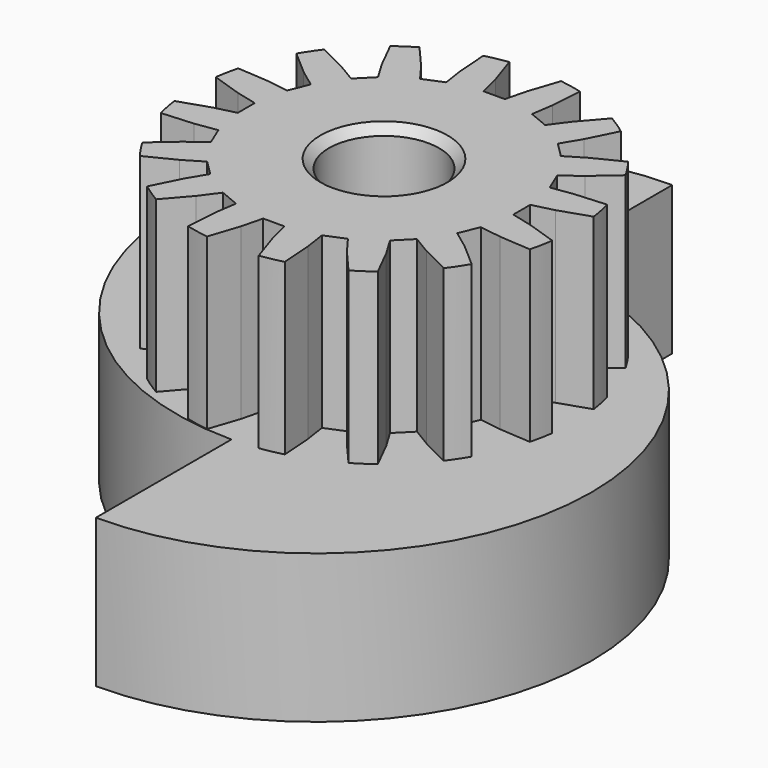
from build123d import *

# Parameters (mm, degrees)
POCKET_DEPTH          = 7
POLARPATTERN_COUNT    = 2
POCKET001_DEPTH       = 8
POLARPATTERN001_COUNT = 16
SKETCH003_R           = 2.6
POCKET002_DEPTH       = 15
CHAMFER_SIZE          = 0.4


with BuildPart() as part:
    # Sketch → Revolution (revolve)
    with BuildSketch(Plane.XZ):
        Polygon((0, 0), (17, 0), (17, 7), (9, 7), (9, 15), (0, 15), align=None)
    revolve(axis=Axis((0, 0, 0), (0, 0, 1)))

    # Sketch001 (on Face3 of Revolution) → Pocket (cut)
    with BuildSketch(Plane(origin=(0, 0, 7), x_dir=(-1, 0, 0), z_dir=(0, 0, 1))):
        with BuildLine():
            Line((0, 17), (17, 17))
            Line((17, 17), (17, -17))
            Line((17, -17), (0, -17))
            ThreePointArc((0, -17), (13, -4), (0, 9))
            Line((0, 17), (0, 9))
        make_face()
    pocket = extrude(amount=-POCKET_DEPTH, mode=Mode.SUBTRACT)

    # PolarPattern: Pocket ×2 about axis
    polarpattern_axis = Axis((0, 0, 7), (0, 0, 1))
    for i in range(1, POLARPATTERN_COUNT):
        add(pocket.rotate(polarpattern_axis, i * 360 / POLARPATTERN_COUNT), mode=Mode.SUBTRACT)

    # Sketch002 (on Face5 of Revolution) → Pocket001 (cut)
    with BuildSketch(Plane(origin=(0, 0, 15), x_dir=(-1, 0, 0), z_dir=(0, 0, 1))):
        Polygon((-1.25, 9), (1.25, 9), (0.75, 7.5), (0.5, 6.5), (-0.5, 6.5), (-0.75, 7.5), align=None)
    pocket001 = extrude(amount=-POCKET001_DEPTH, mode=Mode.SUBTRACT)

    # PolarPattern001: Pocket001 ×16 about axis
    polarpattern001_axis = Axis((0, 0, 15), (0, 0, 1))
    for i in range(1, POLARPATTERN001_COUNT):
        add(pocket001.rotate(polarpattern001_axis, i * 360 / POLARPATTERN001_COUNT), mode=Mode.SUBTRACT)

    # Sketch003 (on Face5 of Revolution) → Pocket002 (cut)
    with BuildSketch(Plane(origin=(0, 0, 15), x_dir=(-1, 0, 0), z_dir=(0, 0, 1))):
        Circle(SKETCH003_R)
    extrude(amount=-POCKET002_DEPTH, mode=Mode.SUBTRACT)

    # Chamfer
    chamfer_edges = [part.edges().sort_by_distance(p)[0] for p in [
        (-2.6, 0, 7.5),
        (2.6, 0, 15),
        (2.6, 0, 0),
    ]]
    chamfer(chamfer_edges, length=CHAMFER_SIZE)


solid = part.part
